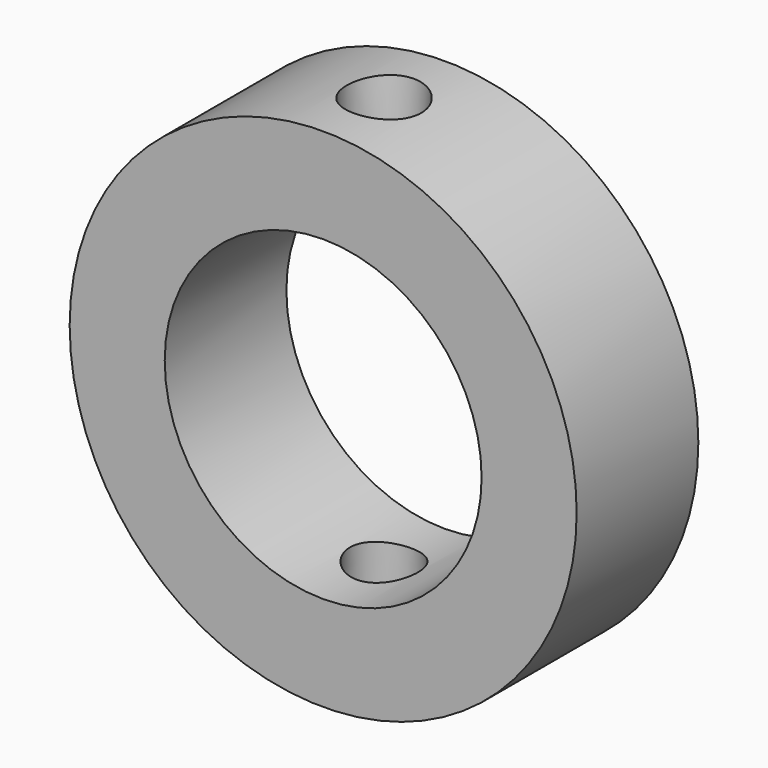
from build123d import *

# Parameters (mm, degrees)
F0_R     = 20
F0_R_2   = 12.5
F1_DEPTH = 6
F2_R     = 2.25
F3_DEPTH = 25
F3_TAPER = -2


with BuildPart() as f1:
    # F0 (on Front) → F1 (new body, symmetric)
    with BuildSketch(Plane.XZ):
        Circle(F0_R)
        Circle(F0_R_2, mode=Mode.SUBTRACT)
    extrude(amount=F1_DEPTH, both=True)

    # F2 (on Top) → F3 (cut, symmetric)
    with BuildSketch(Plane.XY):
        Circle(F2_R)
    extrude(amount=F3_DEPTH, both=True, taper=F3_TAPER, mode=Mode.SUBTRACT)


solid = f1.part
